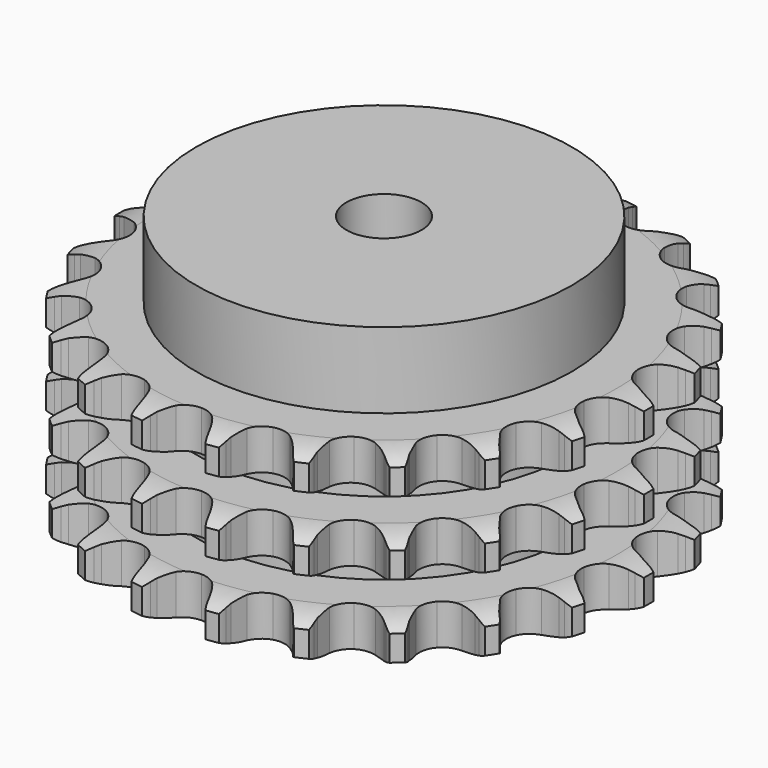
from build123d import *

# Parameters (mm, degrees)
PAD_DEPTH         = 49.8
SKETCH001_R       = 50
PAD001_DEPTH      = 70
SKETCH002_R       = 10
POCKET_DEPTH      = 0.001
POCKET_DEPTH_BACK = 70.001


with BuildPart() as part:
    # Sprocket → Pad (new body)
    with BuildSketch(Plane.XY):
        with BuildLine():
            ThreePointArc((-10.376186, 72.167957), (-8.715102, 70.404042), (-7.530275, 68.290566))
            Line((-7.530275, 68.290566), (-6.946236, 66.8646))
            ThreePointArc((-6.946236, 66.8646), (-6.01069, 64.957975), (-4.827278, 63.194456))
            ThreePointArc((-4.827278, 63.194456), (-2.688548, 61.449868), (0, 60.825797))
            ThreePointArc((0, 60.825797), (2.688548, 61.449868), (4.827278, 63.194456))
            ThreePointArc((4.827278, 63.194456), (6.01069, 64.957975), (6.946236, 66.8646))
            Line((6.946236, 66.8646), (7.530275, 68.290566))
            ThreePointArc((7.530275, 68.290566), (8.715102, 70.404042), (10.376186, 72.167957))
            ThreePointArc((10.376186, 72.167957), (11.473032, 70.007511), (12.01443, 67.645842))
            Line((12.01443, 67.645842), (12.17307, 66.113095))
            ThreePointArc((12.17307, 66.113095), (12.533562, 64.020128), (13.172197, 61.994637))
            ThreePointArc((13.172197, 61.994637), (14.732786, 59.718168), (17.136607, 58.361924))
            ThreePointArc((17.136607, 58.361924), (19.892071, 58.203265), (22.435675, 59.274635))
            Line((22.435675, 59.274635), (25.5028, 62.199133))
            ThreePointArc((25.5028, 62.199133), (25.96914, 62.81273), (26.464922, 63.402795))
            ThreePointArc((26.464922, 63.402795), (28.19719, 65.096856), (30.28794, 66.321338))
            ThreePointArc((30.28794, 66.321338), (30.731688, 63.939389), (30.585797, 61.520854))
            Line((30.585797, 61.520854), (30.306186, 60.0055))
            ThreePointArc((30.306186, 60.0055), (30.062419, 57.89575), (30.104538, 55.772382))
            ThreePointArc((30.104538, 55.772382), (30.960556, 53.148457), (32.884908, 51.169916))
            ThreePointArc((32.884908, 51.169916), (35.484057, 50.24138), (38.226467, 50.552736))
            Line((38.226467, 50.552736), (41.993278, 52.494662))
            ThreePointArc((41.993278, 52.494662), (42.613599, 52.952021), (43.255538, 53.378506))
            ThreePointArc((43.255538, 53.378506), (45.394909, 54.515909), (47.745946, 55.101759))
            ThreePointArc((47.745946, 55.101759), (47.500647, 52.691277), (46.679285, 50.411812))
            Line((46.679285, 50.411812), (45.984075, 49.036616))
            ThreePointArc((45.984075, 49.036616), (45.155797, 47.081003), (44.597988, 45.031781))
            ThreePointArc((44.597988, 45.031781), (44.680087, 42.272974), (45.96907, 39.832426))
            ThreePointArc((45.96907, 39.832426), (48.201336, 38.209237), (50.920378, 37.735355))
            Line((50.920378, 37.735355), (55.08171, 38.537386))
            ThreePointArc((55.08171, 38.537386), (55.805757, 38.801454), (56.541847, 39.029808))
            ThreePointArc((56.541847, 39.029808), (58.915003, 39.518408), (61.335859, 39.418163))
            ThreePointArc((61.335859, 39.418163), (60.421385, 37.174432), (58.991094, 35.218705))
            Line((58.991094, 35.218705), (57.936608, 34.095077))
            ThreePointArc((57.936608, 34.095077), (56.590922, 32.452034), (55.478375, 30.642972))
            ThreePointArc((55.478375, 30.642972), (54.779903, 27.972787), (55.329091, 25.267949))
            ThreePointArc((55.329091, 25.267949), (57.013629, 23.081608), (59.489022, 21.860879))
            Line((59.489022, 21.860879), (63.70775, 21.45804))
            ThreePointArc((63.70775, 21.45804), (64.476864, 21.507424), (65.247473, 21.519147))
            ThreePointArc((65.247473, 21.519147), (67.662153, 21.31936), (69.956706, 20.541142))
            ThreePointArc((69.956706, 20.541142), (68.447142, 18.645935), (66.523797, 17.172388))
            Line((66.523797, 17.172388), (65.195462, 16.391358))
            ThreePointArc((65.195462, 16.391358), (63.441386, 15.193993), (61.864234, 13.771652))
            ThreePointArc((61.864234, 13.771652), (60.441776, 11.40641), (60.206678, 8.656413))
            ThreePointArc((60.206678, 8.656413), (61.207017, 6.084046), (63.238221, 4.215366))
            Line((63.238221, 4.215366), (67.172567, 2.640291))
            ThreePointArc((67.172567, 2.640291), (67.92444, 2.47099), (68.667136, 2.265133))
            ThreePointArc((68.667136, 2.265133), (70.927719, 1.393145), (72.910076, 0))
            ThreePointArc((72.910076, 0), (70.927719, -1.393145), (68.667136, -2.265133))
            Line((68.667136, -2.265133), (67.172567, -2.640291))
            ThreePointArc((67.172567, -2.640291), (65.152207, -3.294974), (63.238221, -4.215366))
            ThreePointArc((63.238221, -4.215366), (61.207017, -6.084046), (60.206678, -8.656413))
            ThreePointArc((60.206678, -8.656413), (60.441776, -11.40641), (61.864234, -13.771652))
            Line((61.864234, -13.771652), (65.195462, -16.391358))
            ThreePointArc((65.195462, -16.391358), (65.869181, -16.765628), (66.523797, -17.172388))
            ThreePointArc((66.523797, -17.172388), (68.447142, -18.645935), (69.956706, -20.541142))
            ThreePointArc((69.956706, -20.541142), (67.662153, -21.31936), (65.247473, -21.519147))
            Line((65.247473, -21.519147), (63.70775, -21.45804))
            ThreePointArc((63.70775, -21.45804), (61.584783, -21.517002), (59.489022, -21.860879))
            ThreePointArc((59.489022, -21.860879), (57.013629, -23.081608), (55.329091, -25.267949))
            ThreePointArc((55.329091, -25.267949), (54.779903, -27.972787), (55.478375, -30.642972))
            Line((55.478375, -30.642972), (57.936608, -34.095077))
            ThreePointArc((57.936608, -34.095077), (58.477593, -34.643995), (58.991094, -35.218705))
            ThreePointArc((58.991094, -35.218705), (60.421385, -37.174432), (61.335859, -39.418163))
            ThreePointArc((61.335859, -39.418163), (58.915003, -39.518408), (56.541847, -39.029808))
            Line((56.541847, -39.029808), (55.08171, -38.537386))
            ThreePointArc((55.08171, -38.537386), (53.028127, -37.995851), (50.920378, -37.735355))
            ThreePointArc((50.920378, -37.735355), (48.201336, -38.209237), (45.96907, -39.832426))
            ThreePointArc((45.96907, -39.832426), (44.680087, -42.272974), (44.597988, -45.031781))
            Line((44.597988, -45.031781), (45.984075, -49.036616))
            ThreePointArc((45.984075, -49.036616), (46.348498, -49.715712), (46.679285, -50.411812))
            ThreePointArc((46.679285, -50.411812), (47.500647, -52.691277), (47.745946, -55.101759))
            ThreePointArc((47.745946, -55.101759), (45.394909, -54.515909), (43.255538, -53.378506))
            Line((43.255538, -53.378506), (41.993278, -52.494662))
            ThreePointArc((41.993278, -52.494662), (40.175447, -51.396502), (38.226467, -50.552736))
            ThreePointArc((38.226467, -50.552736), (35.484057, -50.24138), (32.884908, -51.169916))
            ThreePointArc((32.884908, -51.169916), (30.960556, -53.148457), (30.104538, -55.772382))
            Line((30.104538, -55.772382), (30.306186, -60.0055))
            ThreePointArc((30.306186, -60.0055), (30.464524, -60.759757), (30.585797, -61.520854))
            ThreePointArc((30.585797, -61.520854), (30.731688, -63.939389), (30.28794, -66.321338))
            ThreePointArc((30.28794, -66.321338), (28.19719, -65.096856), (26.464922, -63.402795))
            Line((26.464922, -63.402795), (25.5028, -62.199133))
            ThreePointArc((25.5028, -62.199133), (24.067991, -60.633314), (22.435675, -59.274635))
            ThreePointArc((22.435675, -59.274635), (19.892071, -58.203265), (17.136607, -58.361924))
            ThreePointArc((17.136607, -58.361924), (14.732786, -59.718168), (13.172197, -61.994637))
            Line((13.172197, -61.994637), (12.17307, -66.113095))
            ThreePointArc((12.17307, -66.113095), (12.112495, -66.881408), (12.01443, -67.645842))
            ThreePointArc((12.01443, -67.645842), (11.473032, -70.007511), (10.376186, -72.167957))
            ThreePointArc((10.376186, -72.167957), (8.715102, -70.404042), (7.530275, -68.290566))
            Line((7.530275, -68.290566), (6.946236, -66.8646))
            ThreePointArc((6.946236, -66.8646), (6.01069, -64.957975), (4.827278, -63.194456))
            ThreePointArc((4.827278, -63.194456), (2.688548, -61.449868), (0, -60.825797))
            ThreePointArc((0, -60.825797), (-2.688548, -61.449868), (-4.827278, -63.194456))
            Line((-4.827278, -63.194456), (-6.946236, -66.8646))
            ThreePointArc((-6.946236, -66.8646), (-7.220816, -67.584725), (-7.530275, -68.290566))
            ThreePointArc((-7.530275, -68.290566), (-8.715102, -70.404042), (-10.376186, -72.167957))
            ThreePointArc((-10.376186, -72.167957), (-11.473032, -70.007511), (-12.01443, -67.645842))
            Line((-12.01443, -67.645842), (-12.17307, -66.113095))
            ThreePointArc((-12.17307, -66.113095), (-12.533562, -64.020128), (-13.172197, -61.994637))
            ThreePointArc((-13.172197, -61.994637), (-14.732786, -59.718168), (-17.136607, -58.361924))
            ThreePointArc((-17.136607, -58.361924), (-19.892071, -58.203265), (-22.435675, -59.274635))
            Line((-22.435675, -59.274635), (-25.5028, -62.199133))
            ThreePointArc((-25.5028, -62.199133), (-25.96914, -62.81273), (-26.464922, -63.402795))
            ThreePointArc((-26.464922, -63.402795), (-28.19719, -65.096856), (-30.28794, -66.321338))
            ThreePointArc((-30.28794, -66.321338), (-30.731688, -63.939389), (-30.585797, -61.520854))
            Line((-30.585797, -61.520854), (-30.306186, -60.0055))
            ThreePointArc((-30.306186, -60.0055), (-30.062419, -57.89575), (-30.104538, -55.772382))
            ThreePointArc((-30.104538, -55.772382), (-30.960556, -53.148457), (-32.884908, -51.169916))
            ThreePointArc((-32.884908, -51.169916), (-35.484057, -50.24138), (-38.226467, -50.552736))
            Line((-38.226467, -50.552736), (-41.993278, -52.494662))
            ThreePointArc((-41.993278, -52.494662), (-42.613599, -52.952021), (-43.255538, -53.378506))
            ThreePointArc((-43.255538, -53.378506), (-45.394909, -54.515909), (-47.745946, -55.101759))
            ThreePointArc((-47.745946, -55.101759), (-47.500647, -52.691277), (-46.679285, -50.411812))
            Line((-46.679285, -50.411812), (-45.984075, -49.036616))
            ThreePointArc((-45.984075, -49.036616), (-45.155797, -47.081003), (-44.597988, -45.031781))
            ThreePointArc((-44.597988, -45.031781), (-44.680087, -42.272974), (-45.96907, -39.832426))
            ThreePointArc((-45.96907, -39.832426), (-48.201336, -38.209237), (-50.920378, -37.735355))
            Line((-50.920378, -37.735355), (-55.08171, -38.537386))
            ThreePointArc((-55.08171, -38.537386), (-55.805757, -38.801454), (-56.541847, -39.029808))
            ThreePointArc((-56.541847, -39.029808), (-58.915003, -39.518408), (-61.335859, -39.418163))
            ThreePointArc((-61.335859, -39.418163), (-60.421385, -37.174432), (-58.991094, -35.218705))
            Line((-58.991094, -35.218705), (-57.936608, -34.095077))
            ThreePointArc((-57.936608, -34.095077), (-56.590922, -32.452034), (-55.478375, -30.642972))
            ThreePointArc((-55.478375, -30.642972), (-54.779903, -27.972787), (-55.329091, -25.267949))
            ThreePointArc((-55.329091, -25.267949), (-57.013629, -23.081608), (-59.489022, -21.860879))
            Line((-59.489022, -21.860879), (-63.70775, -21.45804))
            ThreePointArc((-63.70775, -21.45804), (-64.476864, -21.507424), (-65.247473, -21.519147))
            ThreePointArc((-65.247473, -21.519147), (-67.662153, -21.31936), (-69.956706, -20.541142))
            ThreePointArc((-69.956706, -20.541142), (-68.447142, -18.645935), (-66.523797, -17.172388))
            Line((-66.523797, -17.172388), (-65.195462, -16.391358))
            ThreePointArc((-65.195462, -16.391358), (-63.441386, -15.193993), (-61.864234, -13.771652))
            ThreePointArc((-61.864234, -13.771652), (-60.441776, -11.40641), (-60.206678, -8.656413))
            ThreePointArc((-60.206678, -8.656413), (-61.207017, -6.084046), (-63.238221, -4.215366))
            Line((-63.238221, -4.215366), (-67.172567, -2.640291))
            ThreePointArc((-67.172567, -2.640291), (-67.92444, -2.47099), (-68.667136, -2.265133))
            ThreePointArc((-68.667136, -2.265133), (-70.927719, -1.393145), (-72.910076, 0))
            ThreePointArc((-72.910076, 0), (-70.927719, 1.393145), (-68.667136, 2.265133))
            Line((-68.667136, 2.265133), (-67.172567, 2.640291))
            ThreePointArc((-67.172567, 2.640291), (-65.152207, 3.294974), (-63.238221, 4.215366))
            ThreePointArc((-63.238221, 4.215366), (-61.207017, 6.084046), (-60.206678, 8.656413))
            ThreePointArc((-60.206678, 8.656413), (-60.441776, 11.40641), (-61.864234, 13.771652))
            Line((-61.864234, 13.771652), (-65.195462, 16.391358))
            ThreePointArc((-65.195462, 16.391358), (-65.869181, 16.765628), (-66.523797, 17.172388))
            ThreePointArc((-66.523797, 17.172388), (-68.447142, 18.645935), (-69.956706, 20.541142))
            ThreePointArc((-69.956706, 20.541142), (-67.662153, 21.31936), (-65.247473, 21.519147))
            Line((-65.247473, 21.519147), (-63.70775, 21.45804))
            ThreePointArc((-63.70775, 21.45804), (-61.584783, 21.517002), (-59.489022, 21.860879))
            ThreePointArc((-59.489022, 21.860879), (-57.013629, 23.081608), (-55.329091, 25.267949))
            ThreePointArc((-55.329091, 25.267949), (-54.779903, 27.972787), (-55.478375, 30.642972))
            Line((-55.478375, 30.642972), (-57.936608, 34.095077))
            ThreePointArc((-57.936608, 34.095077), (-58.477593, 34.643995), (-58.991094, 35.218705))
            ThreePointArc((-58.991094, 35.218705), (-60.421385, 37.174432), (-61.335859, 39.418163))
            ThreePointArc((-61.335859, 39.418163), (-58.915003, 39.518408), (-56.541847, 39.029808))
            Line((-56.541847, 39.029808), (-55.08171, 38.537386))
            ThreePointArc((-55.08171, 38.537386), (-53.028127, 37.995851), (-50.920378, 37.735355))
            ThreePointArc((-50.920378, 37.735355), (-48.201336, 38.209237), (-45.96907, 39.832426))
            ThreePointArc((-45.96907, 39.832426), (-44.680087, 42.272974), (-44.597988, 45.031781))
            Line((-44.597988, 45.031781), (-45.984075, 49.036616))
            ThreePointArc((-45.984075, 49.036616), (-46.348498, 49.715712), (-46.679285, 50.411812))
            ThreePointArc((-46.679285, 50.411812), (-47.500647, 52.691277), (-47.745946, 55.101759))
            ThreePointArc((-47.745946, 55.101759), (-45.394909, 54.515909), (-43.255538, 53.378506))
            Line((-43.255538, 53.378506), (-41.993278, 52.494662))
            ThreePointArc((-41.993278, 52.494662), (-40.175447, 51.396502), (-38.226467, 50.552736))
            ThreePointArc((-38.226467, 50.552736), (-35.484057, 50.24138), (-32.884908, 51.169916))
            ThreePointArc((-32.884908, 51.169916), (-30.960556, 53.148457), (-30.104538, 55.772382))
            Line((-30.104538, 55.772382), (-30.306186, 60.0055))
            ThreePointArc((-30.306186, 60.0055), (-30.464524, 60.759757), (-30.585797, 61.520854))
            ThreePointArc((-30.585797, 61.520854), (-30.731688, 63.939389), (-30.28794, 66.321338))
            ThreePointArc((-30.28794, 66.321338), (-28.19719, 65.096856), (-26.464922, 63.402795))
            Line((-26.464922, 63.402795), (-25.5028, 62.199133))
            ThreePointArc((-25.5028, 62.199133), (-24.067991, 60.633314), (-22.435675, 59.274635))
            ThreePointArc((-22.435675, 59.274635), (-19.892071, 58.203265), (-17.136607, 58.361924))
            ThreePointArc((-17.136607, 58.361924), (-14.732786, 59.718168), (-13.172197, 61.994637))
            Line((-13.172197, 61.994637), (-12.17307, 66.113095))
            ThreePointArc((-12.17307, 66.113095), (-12.112495, 66.881408), (-12.01443, 67.645842))
            ThreePointArc((-12.01443, 67.645842), (-11.473032, 70.007511), (-10.376186, 72.167957))
        make_face()
    extrude(amount=PAD_DEPTH)

    # Sketch → Groove (revolve, cut)
    with BuildSketch(Plane.XZ):
        with BuildLine():
            ThreePointArc((62.014719, 0), (66.373618, 0.506758), (70.5, 2))
            Line((70.5, 2), (70.5, 8.8))
            ThreePointArc((70.5, 8.8), (66.373618, 10.293242), (62.014719, 10.8))
            Line((50, 10.8), (62.014719, 10.8))
            Line((50, 10.8), (50, 19.5))
            Line((50, 19.5), (62.014719, 19.5))
            ThreePointArc((62.014719, 19.5), (66.373618, 20.006758), (70.5, 21.5))
            Line((70.5, 28.3), (70.5, 21.5))
            ThreePointArc((70.5, 28.3), (66.373618, 29.793242), (62.014719, 30.3))
            Line((50, 30.3), (62.014719, 30.3))
            Line((50, 39), (50, 30.3))
            Line((62.014719, 39), (50, 39))
            ThreePointArc((62.014719, 39), (66.373618, 39.506758), (70.5, 41))
            Line((70.5, 41), (70.5, 47.8))
            ThreePointArc((70.5, 47.8), (66.373618, 49.293242), (62.014719, 49.8))
            Line((62.014719, 49.8), (80.5, 49.8))
            Line((80.5, 49.8), (80.5, 0))
            Line((62.014719, 0), (80.5, 0))
        make_face()
    revolve(axis=Axis((0, 0, 0), (0, 0, 1)), mode=Mode.SUBTRACT)

    # Sketch001 → Pad001 (join)
    with BuildSketch(Plane.XY):
        Circle(SKETCH001_R)
    extrude(amount=PAD001_DEPTH)

    # Sketch002 → Pocket (cut, two sides)
    with BuildSketch(Plane.XY) as pocket_sk:
        Circle(SKETCH002_R)
    extrude(amount=-POCKET_DEPTH, mode=Mode.SUBTRACT)
    extrude(pocket_sk.sketch, amount=POCKET_DEPTH_BACK, mode=Mode.SUBTRACT)


solid = part.part
